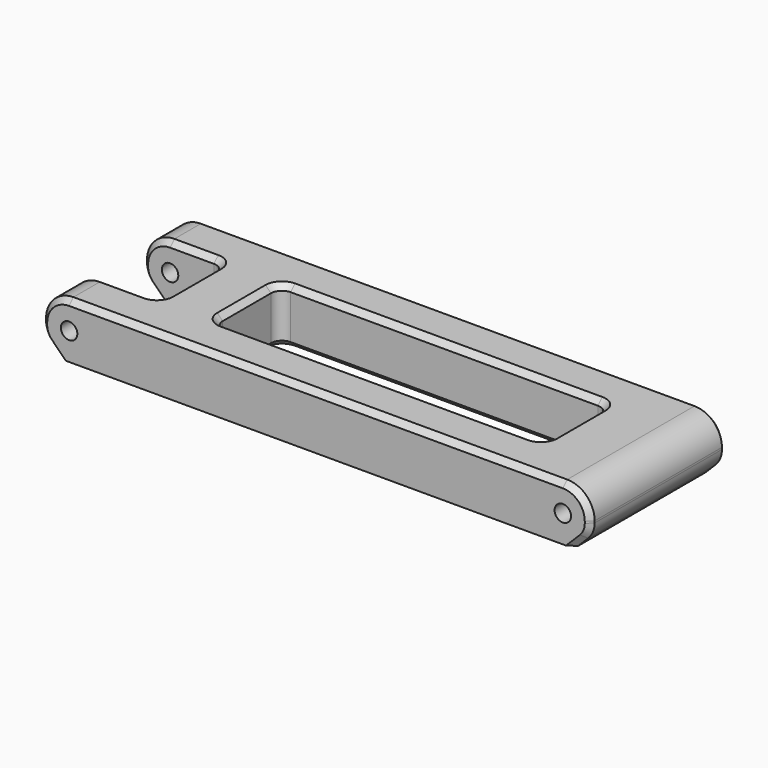
from build123d import *

# Parameters (mm, degrees)
F0_W     = 60
F0_H     = 15
F1_DEPTH = 10
F2_R     = 5
F3_SIZE  = 3
F4_R     = 4
F5_R     = 2
F6_R     = 1.5
F7_DEPTH = 31.001
F8_SIZE  = 1


with BuildPart() as f1:
    # F0 (on Top) → F1 (new body)
    with BuildSketch(Plane.XY):
        Polygon((-23.9456994958, 15.5), (-23.9456994958, 7.5), (-8.9456994958, 7.5), (-8.9456994958, -7.5), (-23.9456994958, -7.5), (-23.9456994958, -15.5), (76.0543005042, -15.5), (76.0543005042, 15.5), align=None)
        with Locations((31.0543005042, 0)):
            Rectangle(F0_W, F0_H, mode=Mode.SUBTRACT)
    extrude(amount=F1_DEPTH)

    # F2
    f2_edges = [f1.edges().sort_by_distance(p)[0] for p in [
        (-23.945699, 11.5, 10),
        (-23.945699, -11.5, 10),
        (76.054301, 0, 10),
    ]]
    fillet(f2_edges, radius=F2_R)

    # F3
    f3_edges = [f1.edges().sort_by_distance(p)[0] for p in [
        (-23.945699, 11.5, 0),
        (-23.945699, -11.5, 0),
        (76.054301, 0, 0),
    ]]
    chamfer(f3_edges, length=F3_SIZE)

    # F4
    f4_edges = [f1.edges().sort_by_distance(p)[0] for p in [
        (76.054301, 0, 3),
        (-23.945699, -11.5, 3),
        (-23.945699, 11.5, 3),
    ]]
    fillet(f4_edges, radius=F4_R)

    # F5
    f5_edges = [f1.edges().sort_by_distance(p)[0] for p in [
        (-8.945699, 7.5, 5),
        (-8.945699, -7.5, 5),
        (1.054301, 7.5, 5),
        (1.054301, -7.5, 5),
        (61.054301, 7.5, 5),
        (61.054301, -7.5, 5),
    ]]
    fillet(f5_edges, radius=F5_R)

    # F6 (on face) → F7 (cut, through all)
    with BuildSketch(Plane.XZ.offset(15.5)):
        with Locations((-18.9456994958, 5)):
            Circle(F6_R)
        with Locations((71.0543005042, 5)):
            Circle(F6_R)
    extrude(amount=-F7_DEPTH, mode=Mode.SUBTRACT)

    # F8
    f8_edges = [f1.edges().sort_by_distance(p)[0] for p in [
        (-14.945699, 7.5, 10),
        (26.054301, 15.5, 10),
        (31.054301, 7.5, 10),
        (31.054301, 7.5, 0),
        (26.054301, -15.5, 10),
    ]]
    chamfer(f8_edges, length=F8_SIZE)


solid = f1.part
